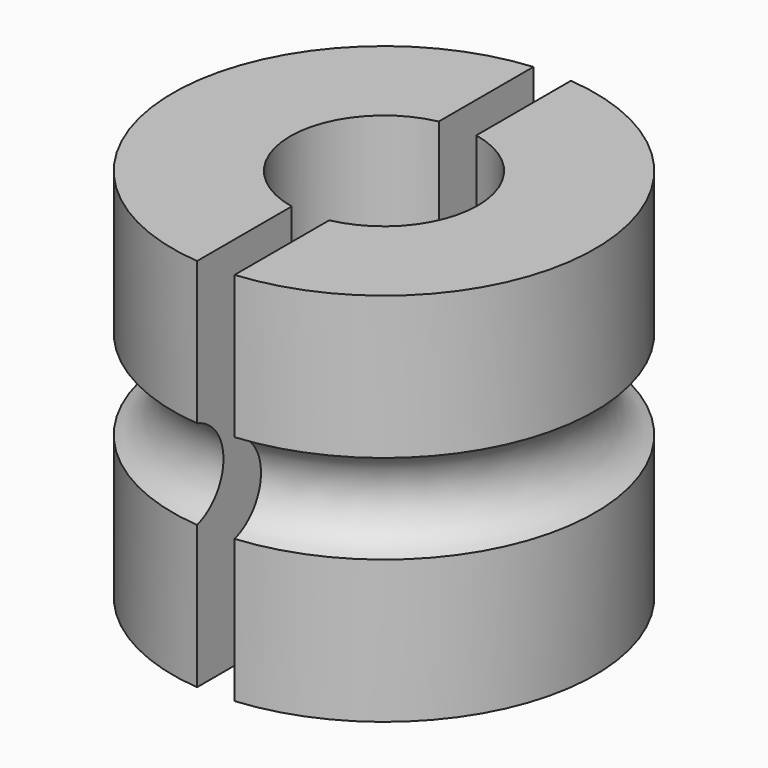
from build123d import *

# Parameters (mm, degrees)
F0_R     = 14.2875
F0_R_2   = 6.35
F1_DEPTH = 25.4
F2_R     = 3.175
F4_W     = 2.54
F4_H     = 31.75
F5_DEPTH = 25.4


with BuildPart() as f1:
    # F0 (on Top) → F1 (new body)
    with BuildSketch(Plane.XY):
        Circle(F0_R)
        Circle(F0_R_2, mode=Mode.SUBTRACT)
    extrude(amount=F1_DEPTH)

    # F2 (on Right) → F3 (revolve, cut)
    with BuildSketch(Plane.YZ):
        with Locations((15.24, 12.7)):
            Circle(F2_R)
    revolve(axis=Axis((0, 0, 0), (0, 0, -1)), mode=Mode.SUBTRACT)

    # F4 (on Top) → F5 (cut)
    with BuildSketch(Plane.XY):
        Rectangle(F4_W, F4_H)
    extrude(amount=F5_DEPTH, mode=Mode.SUBTRACT)


solid = f1.part
